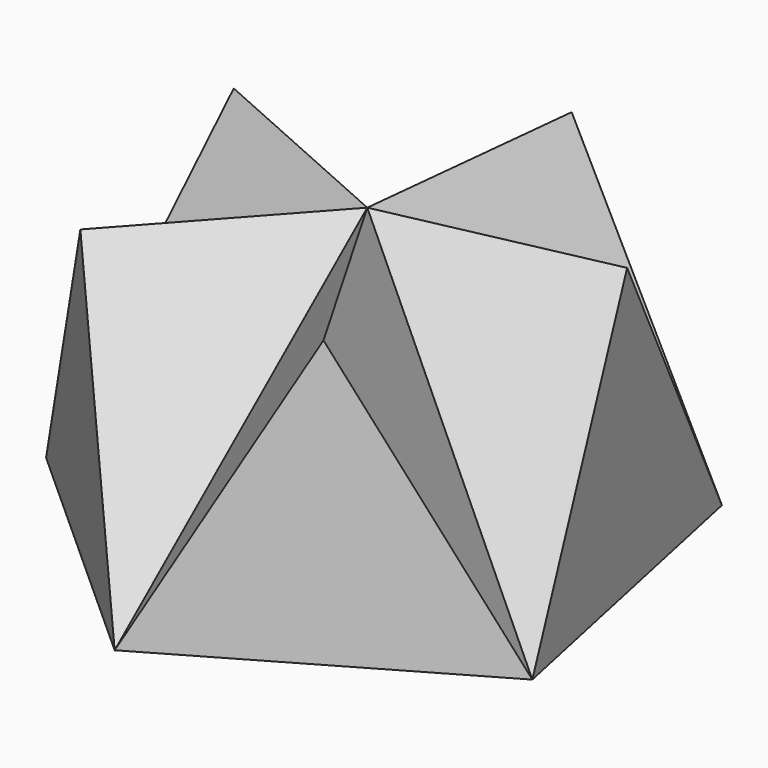
from build123d import *

# Parameters (mm, degrees)
F2_DEPTH = 8.2582915228
F4_COUNT = 5
F5_ANGLE = 30


with BuildPart() as f2:
    # F1 (on Front) → F2 (new body, through all)
    with BuildSketch(Plane.XZ):
        Polygon((0, 10.3923048454), (-6, 0), (6, 0), align=None)
    extrude(amount=F2_DEPTH)

    # F4: F2 ×5 about axis
    f4_axis = Axis((0, 0, 5.1961524227), (0, 0, 1))


with BuildPart() as f2_1:
    add(f2.part)
    for i in range(1, F4_COUNT):
        add(f2.part.rotate(f4_axis, i * 360 / F4_COUNT))


with BuildPart() as f2_2:
    # F5: moved
    add(f2_1.part.rotate(Axis((0, 0, 0), (0, 0, 1)), F5_ANGLE))


solid = f2_2.part
